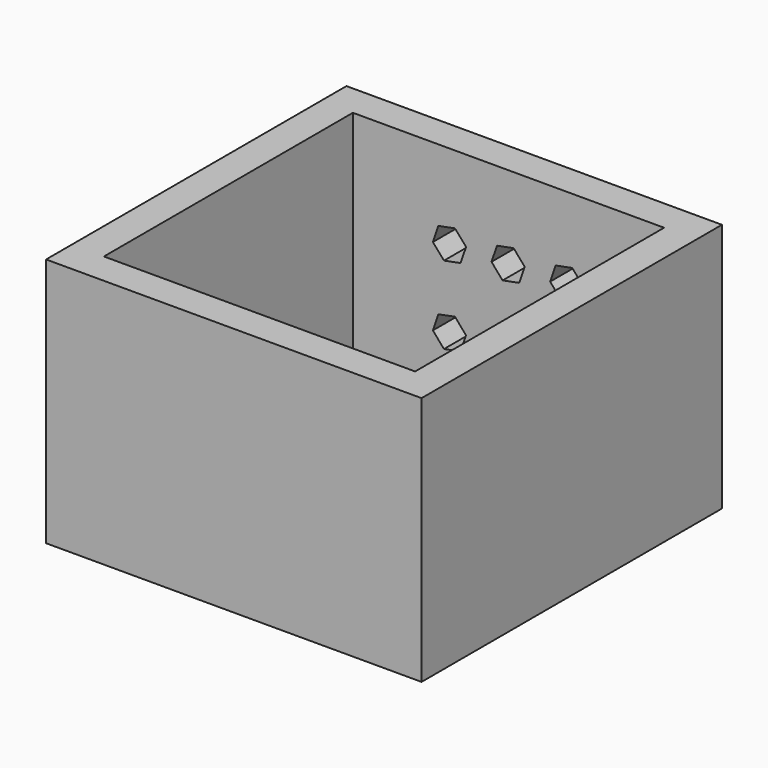
from build123d import *

# Parameters (mm, degrees)
F0_W     = 43.6
F0_H     = 43.6
F2_DEPTH = 3
F3_R     = 1.65
F4_DEPTH = 25
F1_W     = 43.6
F1_H     = 43.6
F5_DEPTH = 35
F7_DEPTH = 25


with BuildPart() as f2:
    # F0 (on Top) → F2 (new body)
    with BuildSketch(Plane.XY):
        with Locations((-1.601375, 0.614843)):
            Rectangle(F0_W, F0_H)
    extrude(amount=F2_DEPTH)

    # F3 (on face) → F4 (cut)
    with BuildSketch(Plane.XY.offset(3)):
        with Locations((-20.051375, 19.264843)):
            Circle(F3_R)
        with Locations((16.848625, 19.264843)):
            Circle(F3_R)
        with Locations((16.848625, -18.035157)):
            Circle(F3_R)
        with Locations((-20.051375, -18.035157)):
            Circle(F3_R)
    extrude(amount=-F4_DEPTH, mode=Mode.SUBTRACT)

    # F1 (on Top) → F5 (join)
    with BuildSketch(Plane.XY):
        Polygon((20.198625, 26.914843), (-23.401375, 26.914843), (-27.901375, 26.914843), (-27.901375, 22.414843), (-27.901375, -21.185157), (-27.901375, -25.685157), (-23.401375, -25.685157), (20.198625, -25.685157), (24.698625, -25.685157), (24.698625, -21.185157), (24.698625, 22.414843), (24.698625, 26.914843), align=None)
        with Locations((-1.601375, 0.614843)):
            Rectangle(F1_W, F1_H, mode=Mode.SUBTRACT)
    extrude(amount=F5_DEPTH)

    # F6 (on face) → F7 (cut)
    with BuildSketch(Plane(origin=(0, 26.914843, 0), x_dir=(-1, 0, 0), z_dir=(0, 1, 0))):
        Polygon((-5.790295, 21.375465), (-4.23457, 23.161669), (-5.003605, 25.402069), (-7.328367, 25.856265), (-8.884092, 24.070061), (-8.115056, 21.829661), align=None)
        Polygon((-8.115056, 10.929661), (-5.790295, 10.475465), (-4.23457, 12.261669), (-5.003605, 14.502069), (-7.328367, 14.956265), (-8.884092, 13.170061), align=None)
        Polygon((0.1, 21.6), (2.424761, 21.145804), (3.980487, 22.932009), (3.211451, 25.172409), (0.88669, 25.626604), (-0.669036, 23.8404), align=None)
        Polygon((0.1, 10.7), (2.424761, 10.245804), (3.980487, 12.032009), (3.211451, 14.272409), (0.88669, 14.726604), (-0.669036, 12.9404), align=None)
        Polygon((8.315056, 21.370339), (10.639818, 20.916144), (12.195543, 22.702348), (11.426507, 24.942748), (9.101746, 25.396944), (7.546021, 23.610739), align=None)
        Polygon((8.315056, 10.470339), (10.639818, 10.016144), (12.195543, 11.802348), (11.426507, 14.042748), (9.101746, 14.496944), (7.546021, 12.710739), align=None)
    extrude(amount=-F7_DEPTH, mode=Mode.SUBTRACT)


solid = f2.part
